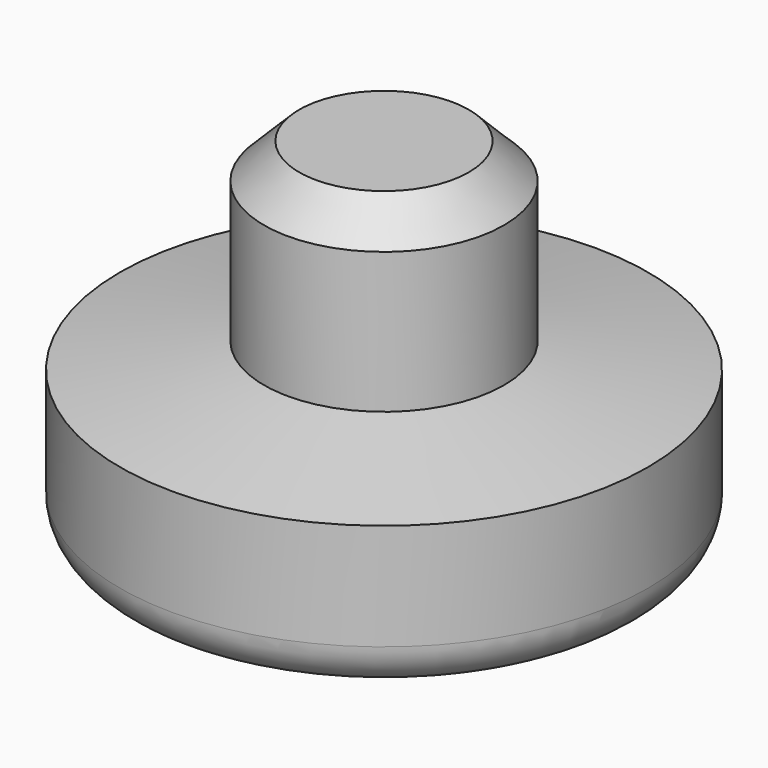
from build123d import *

# Parameters (mm, degrees)
F0_R     = 19.05
F1_DEPTH = 12.7
F2_R     = 8.6614
F3_DEPTH = 12.7
F4_SIZE  = 2.54
F7_R     = 3.175


with BuildPart() as f1:
    # F0 (on Top) → F1 (new body)
    with BuildSketch(Plane.XY):
        Circle(F0_R)
    extrude(amount=-F1_DEPTH)

    # F2 (on face) → F3 (join)
    with BuildSketch(Plane.XY):
        Circle(F2_R)
    extrude(amount=F3_DEPTH)

    # F4
    f4_edges = [f1.edges().sort_by_distance(p)[0] for p in [
        (-8.6614, 0, 12.7),
    ]]
    chamfer(f4_edges, length=F4_SIZE)

    # F5 (on Front) → F6 (revolve, cut)
    with BuildSketch(Plane.XZ):
        Polygon((19.05, -1.83179), (19.05, 0), (8.6614, 0), align=None)
    revolve(axis=Axis((0, 0, 4.455826), (0, 0, 1)), mode=Mode.SUBTRACT)

    # F7
    f7_edges = [f1.edges().sort_by_distance(p)[0] for p in [
        (-19.05, 0, -12.7),
    ]]
    fillet(f7_edges, radius=F7_R)


solid = f1.part
